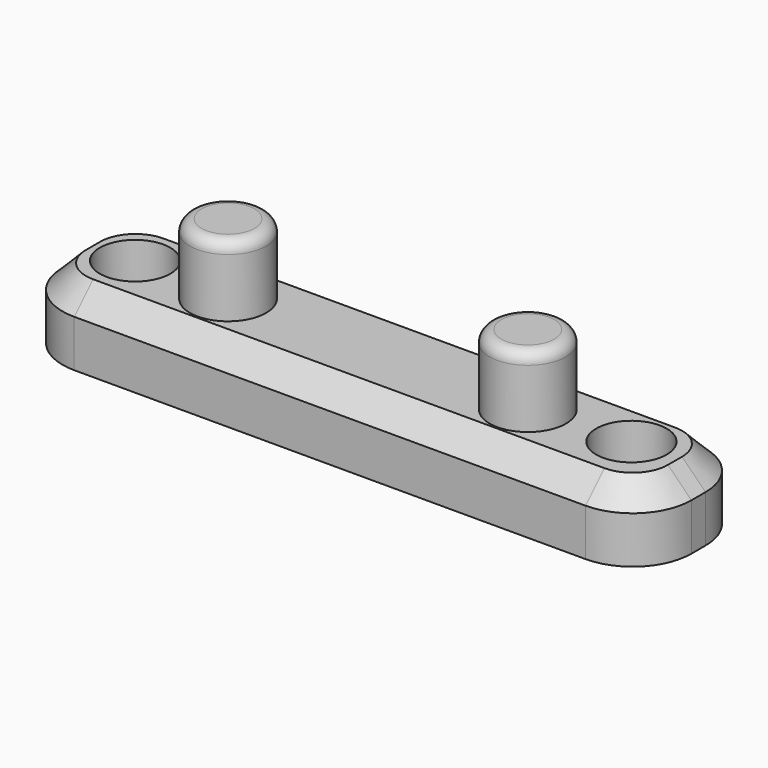
from build123d import *

# Parameters (mm, degrees)
F1_DEPTH = 3
F2_R     = 1.625
F3_DEPTH = 3
F2_R_2   = 1.5
F4_DEPTH = 12.5
F5_R     = 0.5
F6_SIZE  = 1


with BuildPart() as f1:
    # F0 (on Top) → F1 (new body)
    with BuildSketch(Plane.XY):
        with BuildLine():
            Line((7.884551, 11.466584), (-13.865449, 11.466584))
            ThreePointArc((-13.865449, 11.466584), (-15.633216, 10.734351), (-16.365449, 8.966584))
            Line((-16.365449, 8.966584), (-16.365449, 8.216584))
            ThreePointArc((-16.365449, 8.216584), (-15.633216, 6.448817), (-13.865449, 5.716584))
            Line((-13.865449, 5.716584), (7.884551, 5.716584))
            ThreePointArc((7.884551, 5.716584), (9.652318, 6.448817), (10.384551, 8.216584))
            Line((10.384551, 8.216584), (10.384551, 8.966584))
            ThreePointArc((10.384551, 8.966584), (9.652318, 10.734351), (7.884551, 11.466584))
        make_face()
    extrude(amount=F1_DEPTH)

    # F2 (on face) → F3 (join)
    with BuildSketch(Plane.XY.offset(3)):
        with Locations((-9.487499, 8.421189)):
            Circle(F2_R)
        with Locations((3.262501, 8.421584)):
            Circle(F2_R)
    extrude(amount=F3_DEPTH)

    # F2 (on face) → F4 (cut, symmetric)
    with BuildSketch(Plane.XY.offset(3)):
        with Locations((-13.608467, 8.629762)):
            Circle(F2_R_2)
        with Locations((7.391072, 8.768888)):
            Circle(F2_R_2)
    extrude(amount=F4_DEPTH, both=True, mode=Mode.SUBTRACT)

    # F5
    f5_edges = [f1.edges().sort_by_distance(p)[0] for p in [
        (1.637501, 8.421584, 6),
        (-11.112499, 8.421189, 6),
    ]]
    fillet(f5_edges, radius=F5_R)

    # F6
    f6_edges = [f1.edges().sort_by_distance(p)[0] for p in [
        (-2.990449, 11.466584, 3),
        (9.652318, 10.734351, 3),
        (-15.633216, 10.734351, 3),
        (10.384551, 8.591584, 3),
        (9.652318, 6.448817, 3),
        (-2.990449, 5.716584, 3),
        (-16.365449, 8.591584, 3),
        (-15.633216, 6.448817, 3),
    ]]
    chamfer(f6_edges, length=F6_SIZE)


solid = f1.part
